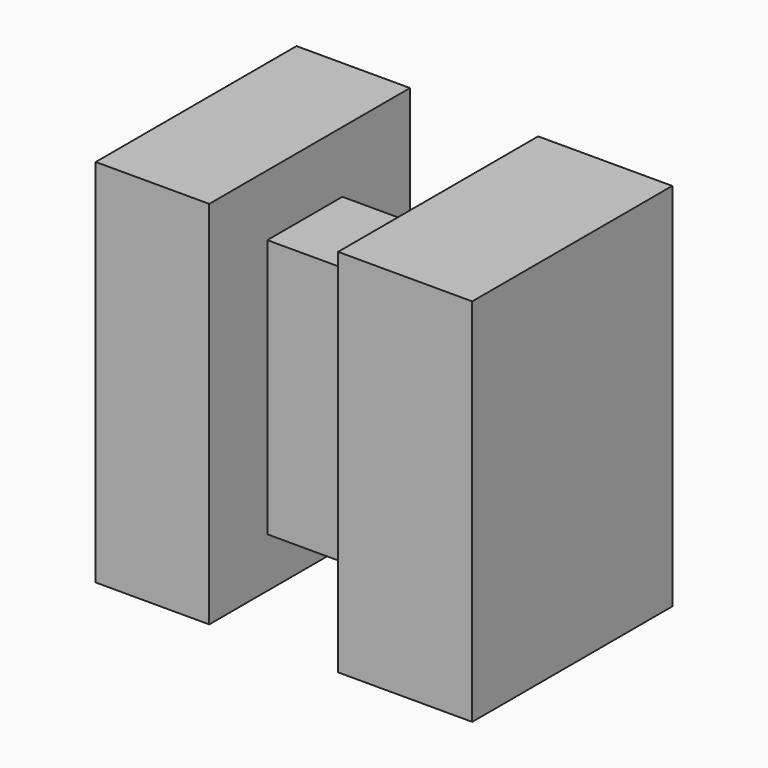
from build123d import *

# Parameters (mm, degrees)
F0_W     = 70.852228
F0_H     = 70.129245
F1_DEPTH = 25.4
F2_W     = 67.719309
F2_H     = 100.253496
F3_DEPTH = 36.322
F4_W     = 67.960299
F4_H     = 100.253489
F5_DEPTH = 30.734


with BuildPart() as f1:
    # F0 (on Front) → F1 (new body)
    with BuildSketch(Plane.XZ):
        with Locations((0.722982, -10.00125)):
            Rectangle(F0_W, F0_H)
    extrude(amount=F1_DEPTH)

    # F2 (on Right) → F3 (join)
    with BuildSketch(Plane.YZ):
        with Locations((-10.965226, -8.675782)):
            Rectangle(F2_W, F2_H)
    extrude(amount=F3_DEPTH)

    # F4 (on face) → F5 (join)
    with BuildSketch(Plane(origin=(-34.703132, 0, 0), x_dir=(0, -1, 0), z_dir=(-1, 0, 0))):
        with Locations((11.085722, -8.434789)):
            Rectangle(F4_W, F4_H)
    extrude(amount=F5_DEPTH)


solid = f1.part
